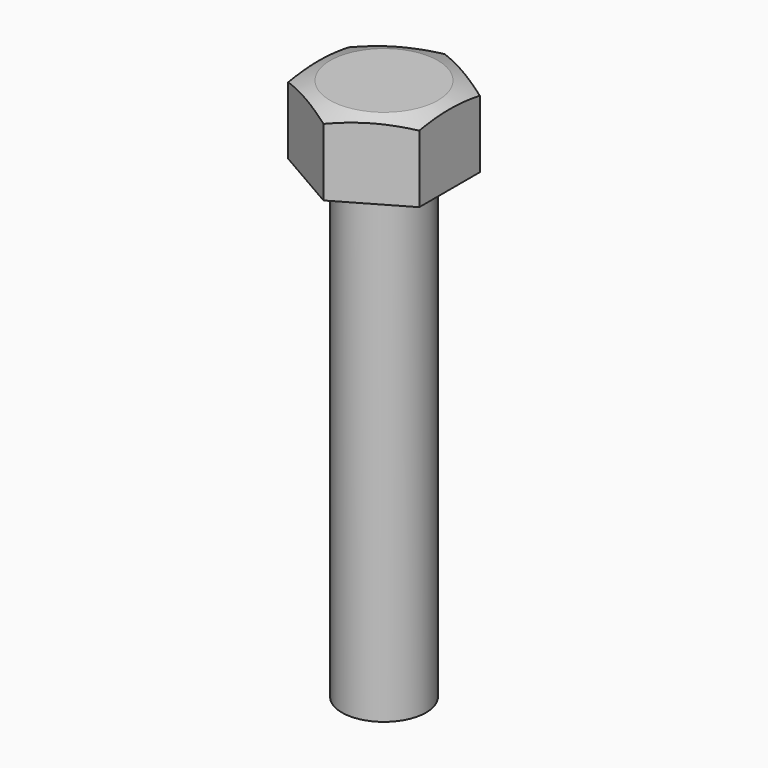
from build123d import *

# Parameters (mm, degrees)
SKETCH_R     = 2.25
PAD_DEPTH    = 25
PAD001_DEPTH = 4


with BuildPart() as revolution:
    # Sketch002 → Revolution (revolve)
    with BuildSketch(Plane.XZ):
        Polygon((0, 29.182125), (2.351471, 29.182125), (4.653152, 28.390949), (4.653152, 29.641115), (0, 29.641115), align=None)
    revolve(axis=Axis((0, 0, 0), (0, 0, 1)))


with BuildPart() as tornillo:
    # Sketch → Pad (new body)
    with BuildSketch(Plane.XY):
        Circle(SKETCH_R)
    extrude(amount=PAD_DEPTH)

    # Sketch001 → Pad001 (new body)
    with BuildSketch(Plane.XY.offset(25)):
        Polygon((3.5, 2.020726), (0, 4.041452), (-3.5, 2.020726), (-3.5, -2.020726), (0, -4.041452), (3.5, -2.020726), align=None)
    extrude(amount=PAD001_DEPTH)

    # Cut: cut Revolution
    add(revolution.part, mode=Mode.SUBTRACT)


solid = tornillo.part
